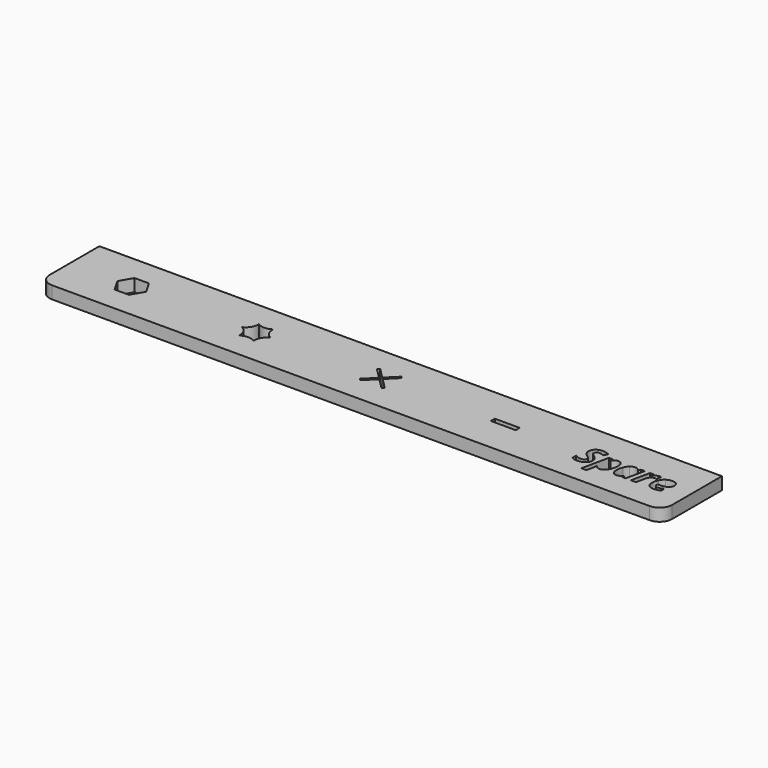
from build123d import *

# Parameters (mm, degrees)
F0_W     = 10
F0_H     = 2
F1_DEPTH = 5
F2_R     = 5


with BuildPart() as f1:
    # F0 (on Top) → F1 (new body)
    with BuildSketch(Plane.XY):
        with BuildLine():
            Line((125, 15), (-125, 15))
            Line((-125, 15), (-125, 5))
            Line((-125, 5), (-102.8867513459, 5))
            Line((-102.8867513459, 5), (-97.1132486541, 5))
            Line((-97.1132486541, 5), (-52.8867513459, 5))
            Line((-52.8867513459, 5), (-47.1132486541, 5))
            Line((-47.1132486541, 5), (-5, 5))
            Line((-5, 5), (-4.2376429894, 5))
            Line((-4.2376429894, 5), (4.2928932188, 5))
            Line((4.2928932188, 5), (5, 5))
            Line((5, 5), (84.4161902487, 5))
            add(Edge.make_bspline(
                [(84.4161902487, 5), (84.7692909477, 5.0564236111), (85.156597462, 5.0564236111)],
                knots=[0.6161917381, 0.6161917381, 0.6161917381, 1, 1, 1], degree=2))
            add(Edge.make_bspline(
                [(85.156597462, 5.0564236111), (85.5833977047, 5.0564236111), (85.9891988688, 5)],
                knots=[0, 0, 0, 0.2900730853, 0.2900730853, 0.2900730853], degree=2))
            Line((85.9891988688, 5), (125, 5))
            Line((125, 5), (125, 15))
        make_face()
        with BuildLine():
            Line((-102.8867513459, 5), (-125, 5))
            Line((-125, 5), (-125, -15))
            Line((-125, -15), (125, -15))
            Line((125, -15), (125, 5))
            Line((125, 5), (85.9891988688, 5))
            add(Edge.make_bspline(
                [(85.9891988688, 5), (86.9823594998, 4.8619084562), (87.8497398231, 4.3858506944)],
                knots=[0.2900730853, 0.2900730853, 0.2900730853, 1, 1, 1], degree=2))
            Line((87.8497398231, 4.3858506944), (87.109722462, 2.8059895833))
            add(Edge.make_bspline(
                [(87.109722462, 2.8059895833), (86.0528648231, 3.3072916667), (85.156597462, 3.3072916667)],
                knots=[0, 0, 0, 1, 1, 1], degree=2))
            add(Edge.make_bspline(
                [(85.156597462, 3.3072916667), (84.5945314897, 3.3072916667), (84.2353735036, 3.0023871528)],
                knots=[0, 0, 0, 1, 1, 1], degree=2))
            add(Edge.make_bspline(
                [(84.2353735036, 3.0023871528), (83.8762155175, 2.6974826389), (83.8762155175, 2.1961805556)],
                knots=[0, 0, 0, 1, 1, 1], degree=2))
            add(Edge.make_bspline(
                [(83.8762155175, 2.1961805556), (83.8762155175, 1.7816840278), (84.0997398231, 1.4735243056)],
                knots=[0, 0, 0, 1, 1, 1], degree=2))
            add(Edge.make_bspline(
                [(84.0997398231, 1.4735243056), (84.3232641286, 1.1653645833), (85.1023439897, 0.6553819444)],
                knots=[0, 0, 0, 1, 1, 1], degree=2))
            add(Edge.make_bspline(
                [(85.1023439897, 0.6553819444), (85.9226564897, 0.1128472222), (86.3295575314, -0.5414496528)],
                knots=[0, 0, 0, 1, 1, 1], degree=2))
            add(Edge.make_bspline(
                [(86.3295575314, -0.5414496528), (86.7364585731, -1.1957465278), (86.7364585731, -2.0703125)],
                knots=[0, 0, 0, 1, 1, 1], degree=2))
            add(Edge.make_bspline(
                [(86.7364585731, -2.0703125), (86.7364585731, -3.4874131944), (85.732769337, -4.3120659722)],
                knots=[0, 0, 0, 1, 1, 1], degree=2))
            add(Edge.make_bspline(
                [(85.732769337, -4.3120659722), (84.7290801009, -5.13671875), (83.0146703786, -5.13671875)],
                knots=[0, 0, 0, 1, 1, 1], degree=2))
            add(Edge.make_bspline(
                [(83.0146703786, -5.13671875), (81.5151044064, -5.13671875), (80.5993057953, -4.5247395833)],
                knots=[0, 0, 0, 1, 1, 1], degree=2))
            Line((80.5993057953, -4.5247395833), (80.5993057953, -2.6671006944))
            add(Edge.make_bspline(
                [(80.5993057953, -2.6671006944), (81.9078995453, -3.3984375), (83.027691212, -3.3984375)],
                knots=[0, 0, 0, 1, 1, 1], degree=2))
            add(Edge.make_bspline(
                [(83.027691212, -3.3984375), (83.7872398231, -3.3984375), (84.2147571842, -3.1108940972)],
                knots=[0, 0, 0, 1, 1, 1], degree=2))
            add(Edge.make_bspline(
                [(84.2147571842, -3.1108940972), (84.6422745453, -2.8233506944), (84.6422745453, -2.3220486111)],
                knots=[0, 0, 0, 1, 1, 1], degree=2))
            add(Edge.make_bspline(
                [(84.6422745453, -2.3220486111), (84.6422745453, -2.0290798611), (84.5500436425, -1.8088107639)],
                knots=[0, 0, 0, 1, 1, 1], degree=2))
            add(Edge.make_bspline(
                [(84.5500436425, -1.8088107639), (84.4578127397, -1.5885416667), (84.2885419064, -1.3986545139)],
                knots=[0, 0, 0, 1, 1, 1], degree=2))
            add(Edge.make_bspline(
                [(84.2885419064, -1.3986545139), (84.1192710731, -1.2087673611), (83.4486981564, -0.7074652778)],
                knots=[0, 0, 0, 1, 1, 1], degree=2))
            add(Edge.make_bspline(
                [(83.4486981564, -0.7074652778), (82.5111981564, -0.0347222222), (82.1314238509, 0.6228298611)],
                knots=[0, 0, 0, 1, 1, 1], degree=2))
            add(Edge.make_bspline(
                [(82.1314238509, 0.6228298611), (81.7516495453, 1.2803819444), (81.7516495453, 2.0399305556)],
                knots=[0, 0, 0, 1, 1, 1], degree=2))
            add(Edge.make_bspline(
                [(81.7516495453, 2.0399305556), (81.7516495453, 2.9144965278), (82.1726564897, 3.6024305556)],
                knots=[0, 0, 0, 1, 1, 1], degree=2))
            add(Edge.make_bspline(
                [(82.1726564897, 3.6024305556), (82.5936634342, 4.2903645833), (83.3705731564, 4.6733940972)],
                knots=[0, 0, 0, 1, 1, 1], degree=2))
            add(Edge.make_bspline(
                [(83.3705731564, 4.6733940972), (83.8492985085, 4.9094137191), (84.4161902487, 5)],
                knots=[0, 0, 0, 0.6161917381, 0.6161917381, 0.6161917381], degree=2))
            Line((84.4161902487, 5), (5, 5))
            Line((5, 5), (4.2928932188, 5))
            Line((4.2928932188, 5), (5, 4.2928932188))
            Line((5, 4.2928932188), (0.7347318959, 0.0276251147))
            Line((0.7347318959, 0.0276251147), (5, -4.2376429894))
            Line((5, -4.2376429894), (4.2928932188, -5))
            Line((4.2928932188, -5), (-4.2928932188, -5))
            Line((-4.2928932188, -5), (-5, -4.2928932188))
            Line((-5, -4.2928932188), (-0.7071067812, 0))
            Line((-0.7071067812, 0), (-5, 4.2928932188))
            Line((-5, 4.2928932188), (-4.2376429894, 5))
            Line((-4.2376429894, 5), (-5, 5))
            Line((-5, 5), (-47.1132486541, 5))
            ThreePointArc((-47.1132486541, 5), (-46.4644660941, 2.0412414523), (-44.2264973081, 0))
            ThreePointArc((-44.2264973081, 0), (-46.4644660941, -2.0412414523), (-47.1132486541, -5))
            Line((-47.1132486541, -5), (-52.8867513459, -5))
            ThreePointArc((-52.8867513459, -5), (-53.5355339059, -2.0412414523), (-55.7735026919, 0))
            ThreePointArc((-55.7735026919, 0), (-53.5355339059, 2.0412414523), (-52.8867513459, 5))
            Line((-52.8867513459, 5), (-97.1132486541, 5))
            Line((-97.1132486541, 5), (-94.2264973081, 0))
            Line((-94.2264973081, 0), (-97.1132486541, -5))
            Line((-97.1132486541, -5), (-102.8867513459, -5))
            Line((-102.8867513459, -5), (-105.7735026919, 0))
            Line((-105.7735026919, 0), (-102.8867513459, 5))
        make_face()
        with BuildLine():
            add(Edge.make_bspline(
                [(91.0441842675, 1.4301215278), (91.9795141286, 2.7235243056), (93.1947919064, 2.7235243056)],
                knots=[0, 0, 0, 1, 1, 1], degree=2))
            add(Edge.make_bspline(
                [(93.1947919064, 2.7235243056), (94.1843752397, 2.7235243056), (94.7572919064, 1.9954427083)],
                knots=[0, 0, 0, 1, 1, 1], degree=2))
            add(Edge.make_bspline(
                [(94.7572919064, 1.9954427083), (95.3302085731, 1.2673611111), (95.3302085731, -0.0434027778)],
                knots=[0, 0, 0, 1, 1, 1], degree=2))
            add(Edge.make_bspline(
                [(95.3302085731, -0.0434027778), (95.3302085731, -1.3368055556), (94.8657988509, -2.5347222222)],
                knots=[0, 0, 0, 1, 1, 1], degree=2))
            add(Edge.make_bspline(
                [(94.8657988509, -2.5347222222), (94.4013891286, -3.7326388889), (93.594097462, -4.4346788194)],
                knots=[0, 0, 0, 1, 1, 1], degree=2))
            add(Edge.make_bspline(
                [(93.594097462, -4.4346788194), (92.7868057953, -5.13671875), (91.816753712, -5.13671875)],
                knots=[0, 0, 0, 1, 1, 1], degree=2))
            add(Edge.make_bspline(
                [(91.816753712, -5.13671875), (91.2546877397, -5.13671875), (90.8477866981, -4.8849826389)],
                knots=[0, 0, 0, 1, 1, 1], degree=2))
            add(Edge.make_bspline(
                [(90.8477866981, -4.8849826389), (90.4408856564, -4.6332465278), (90.0958335731, -4.0299479167)],
                knots=[0, 0, 0, 1, 1, 1], degree=2))
            Line((90.0958335731, -4.0299479167), (90.0415801009, -4.0299479167))
            add(Edge.make_bspline(
                [(90.0415801009, -4.0299479167), (89.9591148231, -5.1085069444), (89.7486113509, -6.0308159722)],
                knots=[0, 0, 0, 1, 1, 1], degree=2))
            Line((89.7486113509, -6.0308159722), (89.2603301009, -8.3376736111))
            Line((89.2603301009, -8.3376736111), (87.2182294064, -8.3376736111))
            Line((87.2182294064, -8.3376736111), (89.5381078786, 2.5824652778))
            Line((89.5381078786, 2.5824652778), (91.0984377397, 2.5824652778))
            Line((91.0984377397, 2.5824652778), (90.9834203786, 1.4301215278))
            Line((90.9834203786, 1.4301215278), (91.0441842675, 1.4301215278))
        make_face(mode=Mode.SUBTRACT)
        with BuildLine():
            add(Edge.make_bspline(
                [(100.8640627397, -4.0169270833), (99.9547745453, -5.13671875), (98.7004342675, -5.13671875)],
                knots=[0, 0, 0, 1, 1, 1], degree=2))
            add(Edge.make_bspline(
                [(98.7004342675, -5.13671875), (97.7021703786, -5.13671875), (97.129253712, -4.4140625)],
                knots=[0, 0, 0, 1, 1, 1], degree=2))
            add(Edge.make_bspline(
                [(97.129253712, -4.4140625), (96.5563370453, -3.69140625), (96.5563370453, -2.3893229167)],
                knots=[0, 0, 0, 1, 1, 1], degree=2))
            add(Edge.make_bspline(
                [(96.5563370453, -2.3893229167), (96.5563370453, -1.0460069444), (97.0446182953, 0.1714409722)],
                knots=[0, 0, 0, 1, 1, 1], degree=2))
            add(Edge.make_bspline(
                [(97.0446182953, 0.1714409722), (97.5328995453, 1.3888888889), (98.3271703786, 2.0562065972)],
                knots=[0, 0, 0, 1, 1, 1], degree=2))
            add(Edge.make_bspline(
                [(98.3271703786, 2.0562065972), (99.121441212, 2.7235243056), (100.0697919064, 2.7235243056)],
                knots=[0, 0, 0, 1, 1, 1], degree=2))
            add(Edge.make_bspline(
                [(100.0697919064, 2.7235243056), (100.7273439897, 2.7235243056), (101.2058596147, 2.4392361111)],
                knots=[0, 0, 0, 1, 1, 1], degree=2))
            add(Edge.make_bspline(
                [(101.2058596147, 2.4392361111), (101.6843752397, 2.1549479167), (101.9491321842, 1.6124131944)],
                knots=[0, 0, 0, 1, 1, 1], degree=2))
            Line((101.9491321842, 1.6124131944), (102.0033856564, 1.6124131944))
            Line((102.0033856564, 1.6124131944), (102.3896703786, 2.5824652778))
            Line((102.3896703786, 2.5824652778), (103.9630210731, 2.5824652778))
            Line((103.9630210731, 2.5824652778), (102.3484377397, -5))
            Line((102.3484377397, -5), (100.7946182953, -5))
            Line((100.7946182953, -5), (100.8901044064, -4.0169270833))
            Line((100.8901044064, -4.0169270833), (100.8640627397, -4.0169270833))
        make_face(mode=Mode.SUBTRACT)
        with BuildLine():
            add(Edge.make_bspline(
                [(107.5155384342, 1.1783854167), (108.5138023231, 2.7235243056), (109.9092016286, 2.7235243056)],
                knots=[0, 0, 0, 1, 1, 1], degree=2))
            add(Edge.make_bspline(
                [(109.9092016286, 2.7235243056), (110.3106773231, 2.7235243056), (110.5602432953, 2.6497395833)],
                knots=[0, 0, 0, 1, 1, 1], degree=2))
            Line((110.5602432953, 2.6497395833), (110.1131946842, 0.68359375))
            add(Edge.make_bspline(
                [(110.1131946842, 0.68359375), (109.8072051009, 0.7921006944), (109.4361113509, 0.7921006944)],
                knots=[0, 0, 0, 1, 1, 1], degree=2))
            add(Edge.make_bspline(
                [(109.4361113509, 0.7921006944), (108.6483509342, 0.7921006944), (108.0548179481, 0.1714409722)],
                knots=[0, 0, 0, 1, 1, 1], degree=2))
            add(Edge.make_bspline(
                [(108.0548179481, 0.1714409722), (107.461284962, -0.44921875), (107.2117189897, -1.6080729167)],
                knots=[0, 0, 0, 1, 1, 1], degree=2))
            Line((107.2117189897, -1.6080729167), (106.4912328786, -5))
            Line((106.4912328786, -5), (104.4513023231, -5))
            Line((104.4513023231, -5), (106.0572051009, 2.5824652778))
            Line((106.0572051009, 2.5824652778), (107.617534962, 2.5824652778))
            Line((107.617534962, 2.5824652778), (107.4743057953, 1.1783854167))
            Line((107.4743057953, 1.1783854167), (107.5155384342, 1.1783854167))
        make_face(mode=Mode.SUBTRACT)
        with BuildLine():
            add(Edge.make_bspline(
                [(116.2980905175, -4.5529513889), (115.1327259342, -5.13671875), (113.6548613509, -5.13671875)],
                knots=[0, 0, 0, 1, 1, 1], degree=2))
            add(Edge.make_bspline(
                [(113.6548613509, -5.13671875), (112.2290801009, -5.13671875), (111.4424047536, -4.3695746528)],
                knots=[0, 0, 0, 1, 1, 1], degree=2))
            add(Edge.make_bspline(
                [(111.4424047536, -4.3695746528), (110.6557294064, -3.6024305556), (110.6557294064, -2.2048611111)],
                knots=[0, 0, 0, 1, 1, 1], degree=2))
            add(Edge.make_bspline(
                [(110.6557294064, -2.2048611111), (110.6557294064, -0.8029513889), (111.2156252397, 0.3537326389)],
                knots=[0, 0, 0, 1, 1, 1], degree=2))
            add(Edge.make_bspline(
                [(111.2156252397, 0.3537326389), (111.7755210731, 1.5104166667), (112.7314672536, 2.1169704861)],
                knots=[0, 0, 0, 1, 1, 1], degree=2))
            add(Edge.make_bspline(
                [(112.7314672536, 2.1169704861), (113.6874134342, 2.7235243056), (114.8940106564, 2.7235243056)],
                knots=[0, 0, 0, 1, 1, 1], degree=2))
            add(Edge.make_bspline(
                [(114.8940106564, 2.7235243056), (116.0962676009, 2.7235243056), (116.7668405175, 2.1712239583)],
                knots=[0, 0, 0, 1, 1, 1], degree=2))
            add(Edge.make_bspline(
                [(116.7668405175, 2.1712239583), (117.4374134342, 1.6189236111), (117.4374134342, 0.6553819444)],
                knots=[0, 0, 0, 1, 1, 1], degree=2))
            add(Edge.make_bspline(
                [(117.4374134342, 0.6553819444), (117.4374134342, -0.6119791667), (116.3056860036, -1.2999131944)],
                knots=[0, 0, 0, 1, 1, 1], degree=2))
            add(Edge.make_bspline(
                [(116.3056860036, -1.2999131944), (115.1739585731, -1.9878472222), (113.0710939897, -1.9878472222)],
                knots=[0, 0, 0, 1, 1, 1], degree=2))
            Line((113.0710939897, -1.9878472222), (112.7238717675, -1.9878472222))
            Line((112.7238717675, -1.9878472222), (112.7108509342, -2.1310763889))
            Line((112.7108509342, -2.1310763889), (112.7108509342, -2.2677951389))
            add(Edge.make_bspline(
                [(112.7108509342, -2.2677951389), (112.7108509342, -2.8841145833), (113.0602432953, -3.2400173611)],
                knots=[0, 0, 0, 1, 1, 1], degree=2))
            add(Edge.make_bspline(
                [(113.0602432953, -3.2400173611), (113.4096356564, -3.5959201389), (114.0606773231, -3.5959201389)],
                knots=[0, 0, 0, 1, 1, 1], degree=2))
            add(Edge.make_bspline(
                [(114.0606773231, -3.5959201389), (114.6509551009, -3.5959201389), (115.1327259342, -3.466796875)],
                knots=[0, 0, 0, 1, 1, 1], degree=2))
            add(Edge.make_bspline(
                [(115.1327259342, -3.466796875), (115.6144967675, -3.3376736111), (116.2980905175, -3.0121527778)],
                knots=[0, 0, 0, 1, 1, 1], degree=2))
            Line((116.2980905175, -3.0121527778), (116.2980905175, -4.5529513889))
        make_face(mode=Mode.SUBTRACT)
        with Locations((50, 0)):
            Rectangle(F0_W, F0_H, mode=Mode.SUBTRACT)
        Polygon((0.0276251147, 0.7347318959), (4.2928932188, 5), (-4.2376429894, 5), align=None)
        Polygon((4.2928932188, -5), (0, -0.7071067812), (-4.2928932188, -5), align=None)
        with BuildLine():
            Line((-47.1132486541, 5), (-52.8867513459, 5))
            ThreePointArc((-52.8867513459, 5), (-50, 4.0824829046), (-47.1132486541, 5))
        make_face()
        with BuildLine():
            ThreePointArc((-47.1132486541, -5), (-50, -4.0824829046), (-52.8867513459, -5))
            Line((-52.8867513459, -5), (-47.1132486541, -5))
        make_face()
    extrude(amount=F1_DEPTH)

    # F2
    f2_edges = [f1.edges().sort_by_distance(p)[0] for p in [
        (-125, -15, 2.5),
        (125, -15, 2.5),
    ]]
    fillet(f2_edges, radius=F2_R)


solid = f1.part
